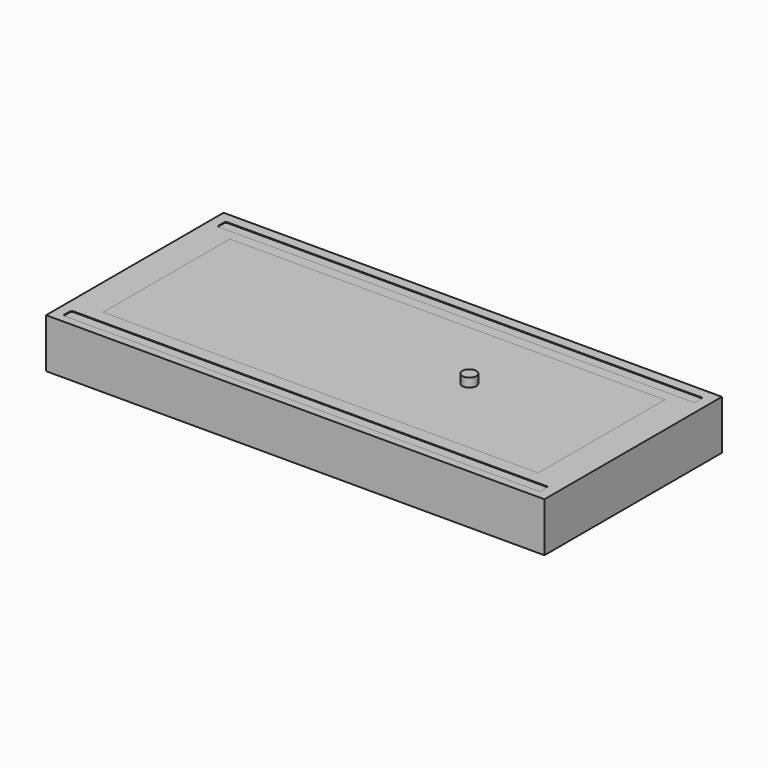
from build123d import *

# Parameters (mm, degrees)
F0_W      = 6
F0_H      = 6
F1_DEPTH  = 3.5
F2_R      = 2
F3_DEPTH  = 2.5
F4_W      = 123.5
F4_H      = 45
F5_DEPTH  = 14
F6_W      = 141.5
F6_H      = 63
F6_W_2    = 123.5
F6_H_2    = 45
F7_DEPTH  = 14
F8_DEPTH  = 14
F9_DEPTH  = 1
F10_W     = 135.5
F10_H     = 3
F11_DEPTH = 0.2
F12_R     = 0.5


with BuildPart() as f1:
    # F0 (on Top) → F1 (new body)
    with BuildSketch(Plane.XY):
        Rectangle(F0_W, F0_H)
    extrude(amount=-F1_DEPTH)

    # F2 (on face) → F3 (join)
    with BuildSketch(Plane.XY):
        Circle(F2_R)
    extrude(amount=F3_DEPTH)


with BuildPart() as f5:
    # F4 (on Top) → F5 (new body)
    with BuildSketch(Plane.XY):
        with Locations((-23.006114117, -1.52229378)):
            Rectangle(F4_W, F4_H)
    extrude(amount=-F5_DEPTH)

    # F6 (on face) → F7 (join)
    with BuildSketch(Plane.XY):
        with Locations((-23.006114117, -1.52229378)):
            Rectangle(F6_W, F6_H)
        with Locations((-23.006114117, -1.52229378)):
            Rectangle(F6_W_2, F6_H_2, mode=Mode.SUBTRACT)
    extrude(amount=-F7_DEPTH)

    # F2 (on face) + F4 (on Top) → F8 (cut)
    with BuildSketch(Plane.XY):
        Circle(F2_R)
    with BuildSketch(Plane.XY):
        with Locations((-23.006114117, -1.52229378)):
            Rectangle(F4_W, F4_H)
    extrude(amount=-F8_DEPTH, mode=Mode.SUBTRACT)

    # F10 (on face) → F11 (cut)
    with BuildSketch(Plane.XY):
        with Locations((-23.006114117, 25.443688035)):
            Rectangle(F10_W, F10_H)
        with Locations((-23.006114117, -29.3015043586)):
            Rectangle(F10_W, F10_H)
    extrude(amount=-F11_DEPTH, mode=Mode.SUBTRACT)

    # F12
    f12_edges = [f5.edges().sort_by_distance(p)[0] for p in [
        (-90.756114, 26.943688, -0.1),
        (-90.756114, 23.943688, -0.1),
        (44.743886, 23.943688, -0.1),
        (44.743886, 26.943688, -0.1),
        (-90.756114, -27.801504, -0.1),
        (-90.756114, -30.801504, -0.1),
        (44.743886, -27.801504, -0.1),
        (44.743886, -30.801504, -0.1),
    ]]
    fillet(f12_edges, radius=F12_R)


with BuildPart() as f9:
    # F4 (on Top) → F9 (new body)
    with BuildSketch(Plane.XY):
        with Locations((-23.006114117, -1.52229378)):
            Rectangle(F4_W, F4_H)
    extrude(amount=-F9_DEPTH)


solid = Compound([f1.part, f5.part, f9.part])
